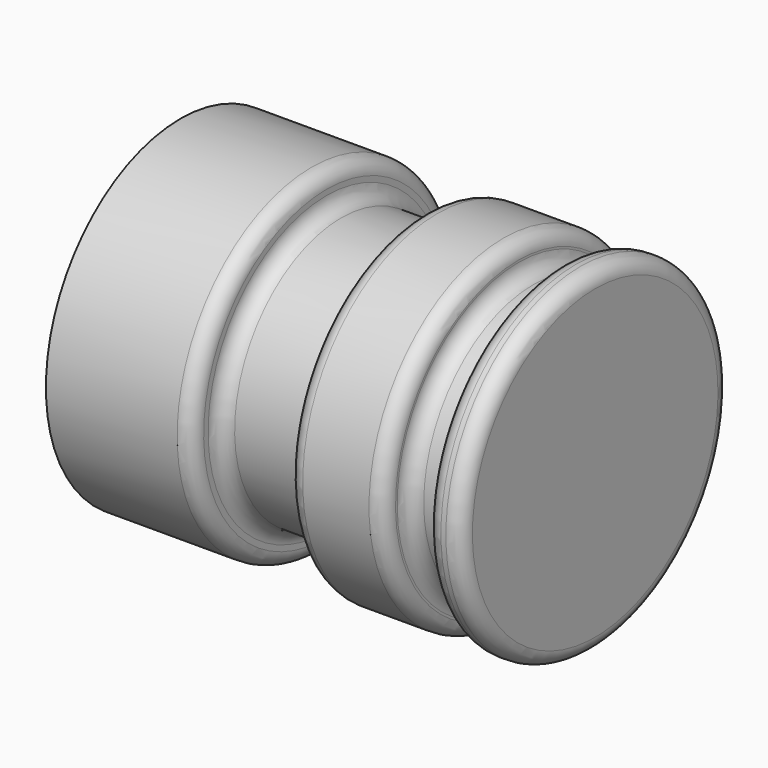
from build123d import *


with BuildPart() as f1:
    # F0 (on Front) → F1 (revolve)
    with BuildSketch(Plane.XZ):
        with BuildLine():
            Line((0, 28.990407), (0, 0))
            Line((0, 0), (71.462676, 0))
            Line((71.462676, 0), (71.462676, 26.450407))
            ThreePointArc((71.462676, 26.450407), (70.718727, 28.246458), (68.922676, 28.990407))
            Line((68.922676, 28.990407), (68.072617, 28.990407))
            ThreePointArc((68.072617, 28.990407), (66.276566, 28.246458), (65.532617, 26.450407))
            Line((65.532617, 26.450407), (65.532617, 26.088597))
            ThreePointArc((65.532617, 26.088597), (64.788668, 24.292546), (62.992617, 23.548597))
            Line((62.992617, 23.548597), (60.758926, 23.548597))
            ThreePointArc((60.758926, 23.548597), (58.962875, 24.292546), (58.218926, 26.088597))
            Line((58.218926, 26.088597), (58.218926, 26.450407))
            ThreePointArc((58.218926, 26.450407), (57.474977, 28.246458), (55.678926, 28.990407))
            Line((55.678926, 28.990407), (44.260114, 28.990407))
            ThreePointArc((44.260114, 28.990407), (42.464063, 28.246458), (41.720114, 26.450407))
            Line((41.720114, 26.450407), (41.720114, 25.492762))
            ThreePointArc((41.720114, 25.492762), (40.976166, 23.696711), (39.180114, 22.952762))
            Line((39.180114, 22.952762), (27.694167, 22.952762))
            ThreePointArc((27.694167, 22.952762), (25.898116, 23.696711), (25.154167, 25.492762))
            Line((25.154167, 25.492762), (25.154167, 26.450407))
            ThreePointArc((25.154167, 26.450407), (24.410219, 28.246458), (22.614167, 28.990407))
            Line((22.614167, 28.990407), (0, 28.990407))
        make_face()
    revolve(axis=Axis((35.731338, 0, 0), (1, 0, 0)))


solid = f1.part
